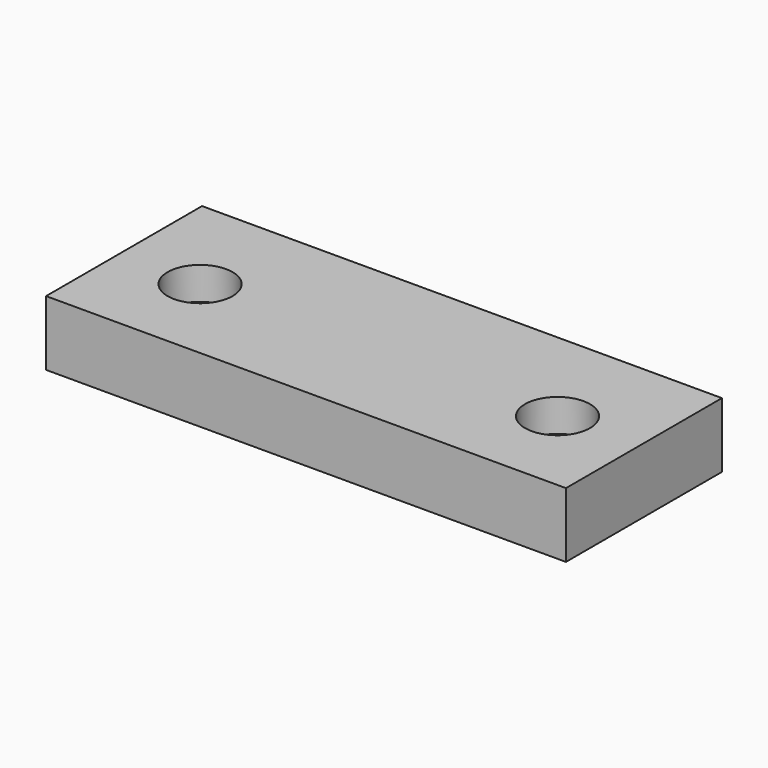
from build123d import *

# Parameters (mm, degrees)
F0_R     = 3.81
F0_R_2   = 6.35
F1_DEPTH = 12.7
F2_DEPTH = 6.35


with BuildPart() as f1:
    # F0 (on Top) → F1 (new body)
    with BuildSketch(Plane.XY):
        with BuildLine():
            ThreePointArc((38.735, -1.27), (34.925, 2.54), (31.115, -1.27))
            ThreePointArc((31.115, -1.27), (34.925, -5.08), (38.735, -1.27))
        make_face()
        with BuildLine():
            ThreePointArc((41.275, -1.27), (34.925, 5.08), (28.575, -1.27))
            ThreePointArc((28.575, -1.27), (34.925, -7.62), (41.275, -1.27))
        make_face()
        with BuildLine():
            ThreePointArc((38.735, -1.27), (34.925, -5.08), (31.115, -1.27))
            ThreePointArc((31.115, -1.27), (34.925, 2.54), (38.735, -1.27))
        make_face(mode=Mode.SUBTRACT)
        with Locations((-34.925, -1.27)):
            Circle(F0_R)
        with Locations((-34.925, -1.27)):
            Circle(F0_R_2)
        with Locations((-34.925, -1.27)):
            Circle(F0_R, mode=Mode.SUBTRACT)
        Polygon((-50.8, -19.05), (50.8, -19.05), (50.8, 19.05), (0, 19.05), (-50.8, 19.05), align=None)
        with Locations((-34.925, -1.27)):
            Circle(F0_R_2, mode=Mode.SUBTRACT)
        with BuildLine():
            ThreePointArc((41.275, -1.27), (34.925, -7.62), (28.575, -1.27))
            ThreePointArc((28.575, -1.27), (34.925, 5.08), (41.275, -1.27))
        make_face(mode=Mode.SUBTRACT)
        with BuildLine():
            ThreePointArc((41.275, -1.27), (34.925, 5.08), (28.575, -1.27))
            ThreePointArc((28.575, -1.27), (34.925, -7.62), (41.275, -1.27))
        make_face()
        with BuildLine():
            ThreePointArc((38.735, -1.27), (34.925, -5.08), (31.115, -1.27))
            ThreePointArc((31.115, -1.27), (34.925, 2.54), (38.735, -1.27))
        make_face(mode=Mode.SUBTRACT)
        with Locations((-34.925, -1.27)):
            Circle(F0_R_2)
        with Locations((-34.925, -1.27)):
            Circle(F0_R, mode=Mode.SUBTRACT)
    extrude(amount=-F1_DEPTH)

    # F0 (on Top) → F2 (cut)
    with BuildSketch(Plane.XY):
        with Locations((-34.925, -1.27)):
            Circle(F0_R_2)
        with Locations((-34.925, -1.27)):
            Circle(F0_R, mode=Mode.SUBTRACT)
        with BuildLine():
            ThreePointArc((41.275, -1.27), (34.925, 5.08), (28.575, -1.27))
            ThreePointArc((28.575, -1.27), (34.925, -7.62), (41.275, -1.27))
        make_face()
        with BuildLine():
            ThreePointArc((38.735, -1.27), (34.925, -5.08), (31.115, -1.27))
            ThreePointArc((31.115, -1.27), (34.925, 2.54), (38.735, -1.27))
        make_face(mode=Mode.SUBTRACT)
    extrude(amount=-F2_DEPTH, mode=Mode.SUBTRACT)


solid = f1.part
